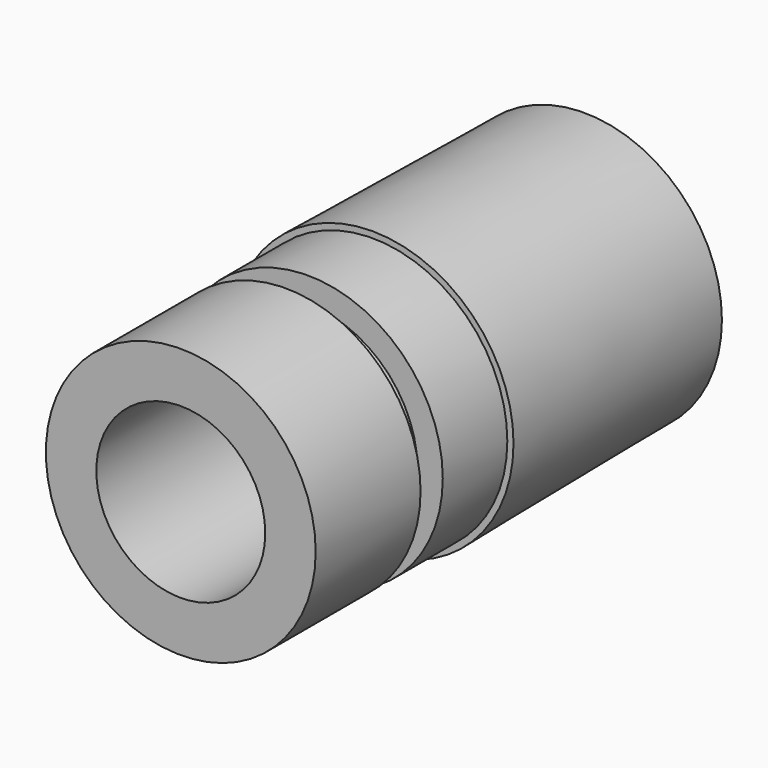
from build123d import *

# Parameters (mm, degrees)
CYLINDER005_R          = 6.7
CYLINDER005_DEPTH      = 40
CYLINDER061_R          = 8.7
CYLINDER061_DEPTH      = 2.2
CYLINDER062_R          = 10.75
CYLINDER062_DEPTH      = 2.2
CYLINDER019_R          = 10.7
CYLINDER019_DEPTH      = 40
CUT022_PLACEMENT_ANGLE = 90


with BuildPart() as obj1:
    # Cylinder005 → Cylinder005 (new body)
    with BuildSketch(Plane.XY):
        Circle(CYLINDER005_R)
    extrude(amount=CYLINDER005_DEPTH)


with BuildPart() as obj2:
    # Cylinder061 → Cylinder061 (new body)
    with BuildSketch(Plane.XY.offset(10.4)):
        Circle(CYLINDER061_R)
    extrude(amount=CYLINDER061_DEPTH)


with BuildPart() as obj3:
    # Cylinder062 → Cylinder062 (new body)
    with BuildSketch(Plane.XY.offset(10.4)):
        Circle(CYLINDER062_R)
    extrude(amount=CYLINDER062_DEPTH)

    # Cut: cut obj2
    add(obj2.part, mode=Mode.SUBTRACT)

    # Fusion: union obj1
    add(obj1.part)


with BuildPart() as housingoutlet:
    # Cylinder019 → Cylinder019 (new body)
    with BuildSketch(Plane.XY):
        Circle(CYLINDER019_R)
    extrude(amount=CYLINDER019_DEPTH)


with BuildPart() as toplevelpart_outletadapter:
    # Cone001 → Cone001 (revolve)
    with BuildSketch(Plane(origin=(0, 0, 19), x_dir=(1, 0, 0), z_dir=(0, -1, 0))):
        Polygon((0, 0), (11.19, 0), (10.92, 21), (0, 21), align=None)
    revolve(axis=Axis((0, 0, 19), (0, 0, 1)))

    # Fusion054: union HousingOutlet
    add(housingoutlet.part)

    # Cut022: cut obj3
    add(obj3.part, mode=Mode.SUBTRACT)


with BuildPart() as toplevelpart_outletadapter_1:
    # Cut022 placement: moved
    add(toplevelpart_outletadapter.part.moved(Location((22, 28.6, 13.15))).rotate(Axis((22, 28.6, 13.15), (-1, 0, 0)), CUT022_PLACEMENT_ANGLE))


solid = toplevelpart_outletadapter_1.part
